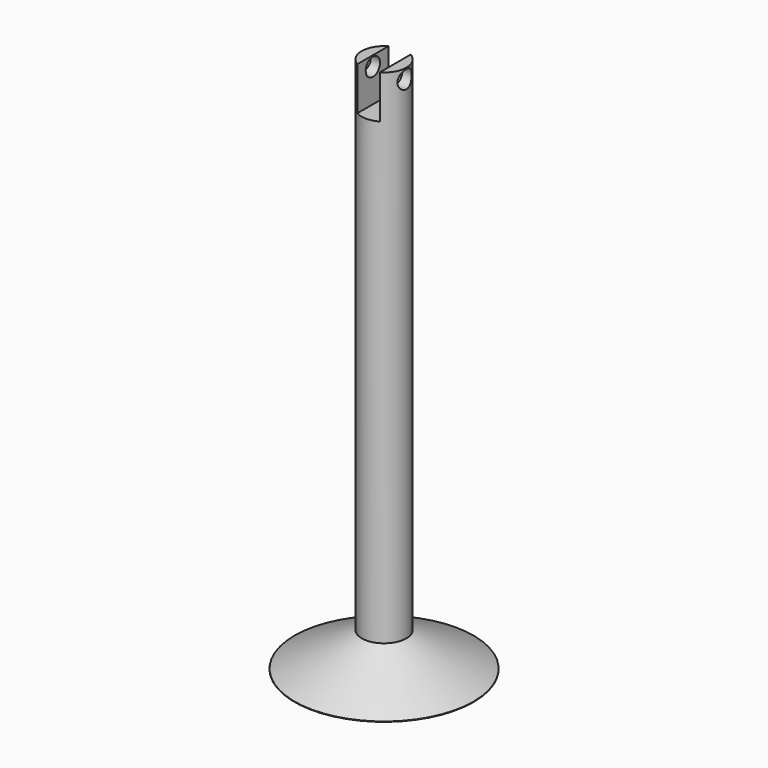
from build123d import *

# Parameters (mm, degrees)
F0_R     = 12.7
F1_DEPTH = 76.2
F4_W     = 3.175
F4_H     = 12.7
F5_DEPTH = 12.7
F6_R     = 1.27
F7_DEPTH = 12.7


with BuildPart() as f1:
    # F0 (on Top) → F1 (new body)
    with BuildSketch(Plane.XY):
        Circle(F0_R)
    extrude(amount=F1_DEPTH)

    # F2 (on Front) → F3 (revolve, cut)
    with BuildSketch(Plane.XZ):
        Polygon((-17.2140765935, -2.2169828881), (-3.175, 4.8652188852), (-3.175, 83.7530791759), (-17.2140765935, 83.7530791759), align=None)
    revolve(axis=Axis((0, 0, 76.2), (0, 0, 1)), mode=Mode.SUBTRACT)

    # F4 (on Front) → F5 (cut, symmetric)
    with BuildSketch(Plane.XZ):
        with Locations((0, 76.409727335)):
            Rectangle(F4_W, F4_H)
    extrude(amount=F5_DEPTH, both=True, mode=Mode.SUBTRACT)

    # F6 (on Right) → F7 (cut, symmetric)
    with BuildSketch(Plane.YZ):
        with Locations((0, 74.7521147132)):
            Circle(F6_R)
    extrude(amount=F7_DEPTH, both=True, mode=Mode.SUBTRACT)


solid = f1.part
